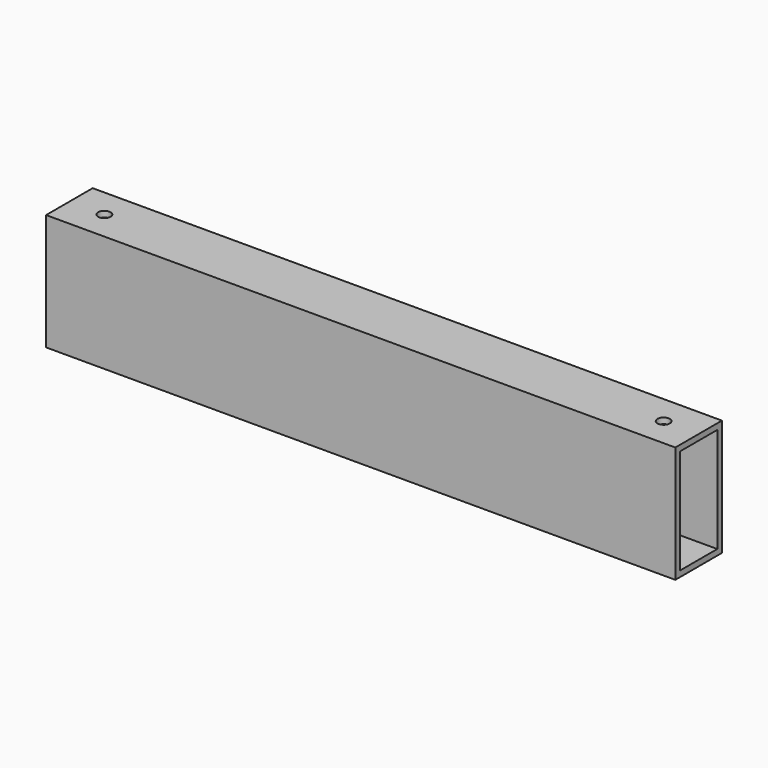
from build123d import *

# Parameters (mm, degrees)
F0_W     = 31.75
F0_H     = 63.5
F0_W_2   = 25.4
F0_H_2   = 57.15
F1_DEPTH = 342.9
F2_R     = 1.89865
F3_DEPTH = 3.175
F4_R     = 3.3782
F5_DEPTH = 3.175


with BuildPart() as f1:
    # F0 (on Right) → F1 (new body)
    with BuildSketch(Plane.YZ):
        Rectangle(F0_W, F0_H)
        Rectangle(F0_W_2, F0_H_2, mode=Mode.SUBTRACT)
    extrude(amount=F1_DEPTH)

    # F2 (on face) → F3 (cut, through all)
    with BuildSketch(Plane(origin=(0, 0, -31.75), x_dir=(1, 0, 0), z_dir=(0, 0, -1))):
        with Locations((117.475, 0)):
            Circle(F2_R)
        with Locations((301.625, 0)):
            Circle(F2_R)
    extrude(amount=-F3_DEPTH, mode=Mode.SUBTRACT)

    # F4 (on face) → F5 (cut, through all)
    with BuildSketch(Plane.XY.offset(31.75)):
        with Locations((19.05, 0)):
            Circle(F4_R)
        with Locations((323.85, 0)):
            Circle(F4_R)
    extrude(amount=-F5_DEPTH, mode=Mode.SUBTRACT)


solid = f1.part
